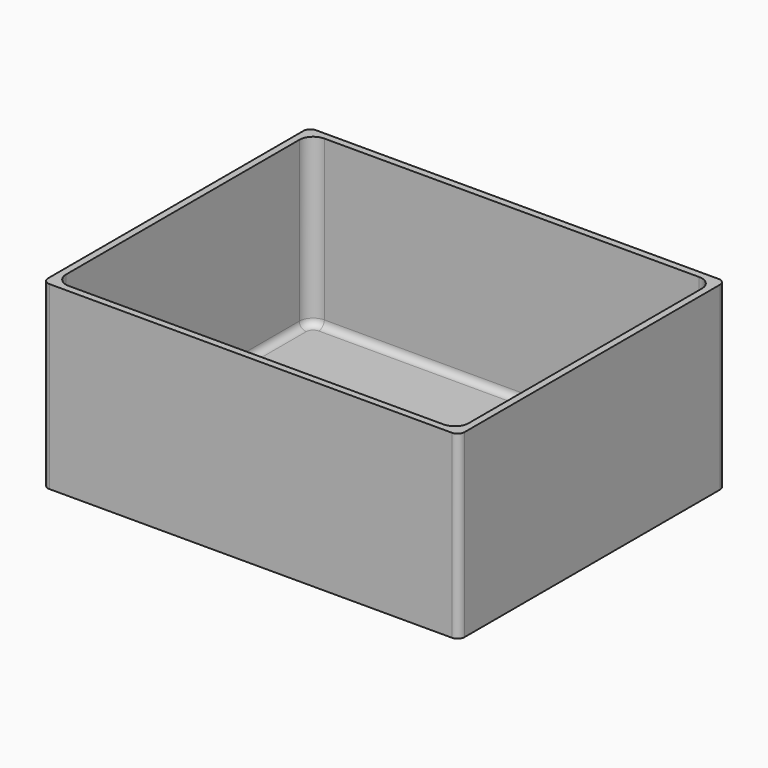
from build123d import *

# Parameters (mm, degrees)
F1_DEPTH = 130
F0_R     = 15
F2_DEPTH = 10
F0_R_2   = 10
F0_R_3   = 5
F3_DEPTH = 5
F4_R     = 0.8
F5_R     = 5


with BuildPart() as f1:
    # F0 (on Top) → F1 (new body)
    with BuildSketch(Plane.XY):
        with BuildLine():
            ThreePointArc((-137.9369372874, 168.1235290214), (-141.4724711934, 166.6590629273), (-142.9369372874, 163.1235290214))
            Line((-142.9369372874, 163.1235290214), (-142.9369372874, -66.8764709786))
            ThreePointArc((-142.9369372874, -66.8764709786), (-141.4724711934, -70.4120048845), (-137.9369372874, -71.8764709786))
            Line((-137.9369372874, -71.8764709786), (152.0630627126, -71.8764709786))
            ThreePointArc((152.0630627126, -71.8764709786), (155.5985966185, -70.4120048845), (157.0630627126, -66.8764709786))
            Line((157.0630627126, -66.8764709786), (157.0630627126, 163.1235290214))
            ThreePointArc((157.0630627126, 163.1235290214), (155.5985966185, 166.6590629273), (152.0630627126, 168.1235290214))
            Line((152.0630627126, 168.1235290214), (-137.9369372874, 168.1235290214))
        make_face()
        with BuildLine():
            ThreePointArc((-137.9369372874, 153.1235290214), (-135.0080050993, 160.1945968333), (-127.9369372874, 163.1235290214))
            Line((-127.9369372874, 163.1235290214), (92.0630627126, 163.1235290214))
            Line((92.0630627126, 163.1235290214), (142.0630627126, 163.1235290214))
            ThreePointArc((142.0630627126, 163.1235290214), (149.1341305244, 160.1945968333), (152.0630627126, 153.1235290214))
            Line((152.0630627126, 153.1235290214), (152.0630627126, -56.8764709786))
            ThreePointArc((152.0630627126, -56.8764709786), (149.1341305244, -63.9475387905), (142.0630627126, -66.8764709786))
            Line((142.0630627126, -66.8764709786), (92.0630627126, -66.8764709786))
            Line((92.0630627126, -66.8764709786), (-127.9369372874, -66.8764709786))
            ThreePointArc((-127.9369372874, -66.8764709786), (-135.0080050993, -63.9475387905), (-137.9369372874, -56.8764709786))
            Line((-137.9369372874, -56.8764709786), (-137.9369372874, 153.1235290214))
        make_face(mode=Mode.SUBTRACT)
        with BuildLine():
            ThreePointArc((-137.9369372874, 168.1235290214), (-141.4724711934, 166.6590629273), (-142.9369372874, 163.1235290214))
            Line((-142.9369372874, 163.1235290214), (-142.9369372874, -66.8764709786))
            ThreePointArc((-142.9369372874, -66.8764709786), (-141.4724711934, -70.4120048845), (-137.9369372874, -71.8764709786))
            Line((-137.9369372874, -71.8764709786), (152.0630627126, -71.8764709786))
            ThreePointArc((152.0630627126, -71.8764709786), (155.5985966185, -70.4120048845), (157.0630627126, -66.8764709786))
            Line((157.0630627126, -66.8764709786), (157.0630627126, 163.1235290214))
            ThreePointArc((157.0630627126, 163.1235290214), (155.5985966185, 166.6590629273), (152.0630627126, 168.1235290214))
            Line((152.0630627126, 168.1235290214), (-137.9369372874, 168.1235290214))
        make_face()
        with BuildLine():
            ThreePointArc((-137.9369372874, 153.1235290214), (-135.0080050993, 160.1945968333), (-127.9369372874, 163.1235290214))
            Line((-127.9369372874, 163.1235290214), (92.0630627126, 163.1235290214))
            Line((92.0630627126, 163.1235290214), (142.0630627126, 163.1235290214))
            ThreePointArc((142.0630627126, 163.1235290214), (149.1341305244, 160.1945968333), (152.0630627126, 153.1235290214))
            Line((152.0630627126, 153.1235290214), (152.0630627126, -56.8764709786))
            ThreePointArc((152.0630627126, -56.8764709786), (149.1341305244, -63.9475387905), (142.0630627126, -66.8764709786))
            Line((142.0630627126, -66.8764709786), (92.0630627126, -66.8764709786))
            Line((92.0630627126, -66.8764709786), (-127.9369372874, -66.8764709786))
            ThreePointArc((-127.9369372874, -66.8764709786), (-135.0080050993, -63.9475387905), (-137.9369372874, -56.8764709786))
            Line((-137.9369372874, -56.8764709786), (-137.9369372874, 153.1235290214))
        make_face(mode=Mode.SUBTRACT)
    extrude(amount=F1_DEPTH)

    # F0 (on Top) → F2 (join)
    with BuildSketch(Plane.XY):
        with BuildLine():
            Line((92.0630627126, 163.1235290214), (-127.9369372874, 163.1235290214))
            ThreePointArc((-127.9369372874, 163.1235290214), (-135.0080050993, 160.1945968333), (-137.9369372874, 153.1235290214))
            Line((-137.9369372874, 153.1235290214), (-137.9369372874, -56.8764709786))
            ThreePointArc((-137.9369372874, -56.8764709786), (-135.0080050993, -63.9475387905), (-127.9369372874, -66.8764709786))
            Line((-127.9369372874, -66.8764709786), (92.0630627126, -66.8764709786))
            Line((92.0630627126, -66.8764709786), (92.0630627126, 163.1235290214))
        make_face()
        with Locations((-22.9369372874, 48.1235290214)):
            Circle(F0_R, mode=Mode.SUBTRACT)
        with BuildLine():
            Line((92.0630627126, 163.1235290214), (-127.9369372874, 163.1235290214))
            ThreePointArc((-127.9369372874, 163.1235290214), (-135.0080050993, 160.1945968333), (-137.9369372874, 153.1235290214))
            Line((-137.9369372874, 153.1235290214), (-137.9369372874, -56.8764709786))
            ThreePointArc((-137.9369372874, -56.8764709786), (-135.0080050993, -63.9475387905), (-127.9369372874, -66.8764709786))
            Line((-127.9369372874, -66.8764709786), (92.0630627126, -66.8764709786))
            Line((92.0630627126, -66.8764709786), (92.0630627126, 163.1235290214))
        make_face()
        with Locations((-22.9369372874, 48.1235290214)):
            Circle(F0_R, mode=Mode.SUBTRACT)
        with BuildLine():
            Line((142.0630627126, 163.1235290214), (92.0630627126, 163.1235290214))
            Line((92.0630627126, 163.1235290214), (92.0630627126, -66.8764709786))
            Line((92.0630627126, -66.8764709786), (142.0630627126, -66.8764709786))
            ThreePointArc((142.0630627126, -66.8764709786), (149.1341305244, -63.9475387905), (152.0630627126, -56.8764709786))
            Line((152.0630627126, -56.8764709786), (152.0630627126, 153.1235290214))
            ThreePointArc((152.0630627126, 153.1235290214), (149.1341305244, 160.1945968333), (142.0630627126, 163.1235290214))
        make_face()
    extrude(amount=F2_DEPTH)



with BuildPart() as f2:
    # F0 (on Top) → F2, piece 2 (new body)
    with BuildSketch(Plane.XY):
        with Locations((-22.9369372874, 48.1235290214)):
            Circle(F0_R_2)
        with Locations((-22.9369372874, 48.1235290214)):
            Circle(F0_R_3, mode=Mode.SUBTRACT)
    extrude(amount=F2_DEPTH)


with BuildPart() as f1_1:
    add(f1.part)

    add(f2.part)  # F3 merges F2
    # F0 (on Top) → F3 (join)
    with BuildSketch(Plane.XY):
        with Locations((-22.9369372874, 48.1235290214)):
            Circle(F0_R)
        with Locations((-22.9369372874, 48.1235290214)):
            Circle(F0_R_2, mode=Mode.SUBTRACT)
    extrude(amount=F3_DEPTH)

    # F4
    f4_edges = [f1_1.edges().sort_by_distance(p)[0] for p in [
        (-32.936937, 48.123529, 10),
        (-27.936937, 48.123529, 10),
        (-37.936937, 48.123529, 10),
    ]]
    fillet(f4_edges, radius=F4_R)

    # F5
    f5_edges = [f1_1.edges().sort_by_distance(p)[0] for p in [
        (-38.736937, 48.123529, 10),
        (-135.008005, 160.194597, 10),
        (-137.936937, 48.123529, 10),
        (-135.008005, -63.947539, 10),
        (7.063063, -66.876471, 10),
        (149.134131, -63.947539, 10),
        (152.063063, 48.123529, 10),
        (149.134131, 160.194597, 10),
        (7.063063, 163.123529, 10),
    ]]
    fillet(f5_edges, radius=F5_R)


solid = f1_1.part
